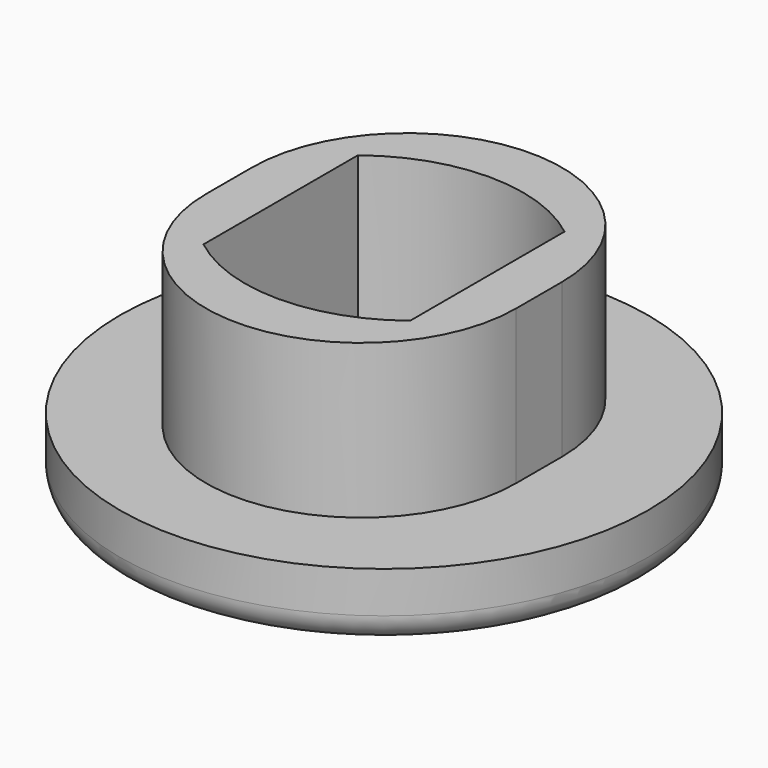
from build123d import *

# Parameters (mm, degrees)
F0_R     = 11.5
F1_DEPTH = 3
F2_R     = 1.2
F3_DEPTH = 6.7


with BuildPart() as f1:
    # F0 (on Top) → F1 (new body)
    with BuildSketch(Plane.XY):
        Circle(F0_R)
        with BuildLine():
            ThreePointArc((-6.75, 1.25), (0, 8), (6.75, 1.25))
            Line((6.75, 1.25), (6.75, -1.25))
            ThreePointArc((6.75, -1.25), (0, -8), (-6.75, -1.25))
            Line((-6.75, -1.25), (-6.75, 1.25))
        make_face(mode=Mode.SUBTRACT)
        with BuildLine():
            ThreePointArc((4.5, 4.20141), (5.815353, 2.87082), (6.75, 1.25))
            ThreePointArc((6.75, 1.25), (0, 8), (-6.75, 1.25))
            ThreePointArc((-6.75, 1.25), (-5.815353, 2.87082), (-4.5, 4.20141))
            ThreePointArc((-4.5, 4.20141), (0, 5.75), (4.5, 4.20141))
        make_face()
        with BuildLine():
            ThreePointArc((-4.5, 4.20141), (-5.815353, 2.87082), (-6.75, 1.25))
            Line((-6.75, 1.25), (-6.75, -1.25))
            ThreePointArc((-6.75, -1.25), (-5.815353, -2.87082), (-4.5, -4.20141))
            Line((-4.5, -4.20141), (-4.5, 4.20141))
        make_face()
        with BuildLine():
            Line((4.5, -4.20141), (4.5, 4.20141))
            ThreePointArc((4.5, 4.20141), (0, 5.75), (-4.5, 4.20141))
            Line((-4.5, 4.20141), (-4.5, -4.20141))
            ThreePointArc((-4.5, -4.20141), (0, -5.75), (4.5, -4.20141))
        make_face()
        with BuildLine():
            ThreePointArc((-6.75, -1.25), (0, -8), (6.75, -1.25))
            ThreePointArc((6.75, -1.25), (5.815353, -2.87082), (4.5, -4.20141))
            ThreePointArc((4.5, -4.20141), (0, -5.75), (-4.5, -4.20141))
            ThreePointArc((-4.5, -4.20141), (-5.815353, -2.87082), (-6.75, -1.25))
        make_face()
        with BuildLine():
            Line((6.75, -1.25), (6.75, 1.25))
            ThreePointArc((6.75, 1.25), (5.815353, 2.87082), (4.5, 4.20141))
            Line((4.5, 4.20141), (4.5, -4.20141))
            ThreePointArc((4.5, -4.20141), (5.815353, -2.87082), (6.75, -1.25))
        make_face()
    extrude(amount=-F1_DEPTH)

    # F2
    f2_edges = [f1.edges().sort_by_distance(p)[0] for p in [
        (-11.5, 0, -3),
    ]]
    fillet(f2_edges, radius=F2_R)

    # F0 (on Top) → F3 (join)
    with BuildSketch(Plane.XY):
        with BuildLine():
            ThreePointArc((-4.5, 4.20141), (-5.815353, 2.87082), (-6.75, 1.25))
            Line((-6.75, 1.25), (-6.75, -1.25))
            ThreePointArc((-6.75, -1.25), (-5.815353, -2.87082), (-4.5, -4.20141))
            Line((-4.5, -4.20141), (-4.5, 4.20141))
        make_face()
        with BuildLine():
            ThreePointArc((4.5, 4.20141), (5.815353, 2.87082), (6.75, 1.25))
            ThreePointArc((6.75, 1.25), (0, 8), (-6.75, 1.25))
            ThreePointArc((-6.75, 1.25), (-5.815353, 2.87082), (-4.5, 4.20141))
            ThreePointArc((-4.5, 4.20141), (0, 5.75), (4.5, 4.20141))
        make_face()
        with BuildLine():
            Line((6.75, -1.25), (6.75, 1.25))
            ThreePointArc((6.75, 1.25), (5.815353, 2.87082), (4.5, 4.20141))
            Line((4.5, 4.20141), (4.5, -4.20141))
            ThreePointArc((4.5, -4.20141), (5.815353, -2.87082), (6.75, -1.25))
        make_face()
        with BuildLine():
            ThreePointArc((-6.75, -1.25), (0, -8), (6.75, -1.25))
            ThreePointArc((6.75, -1.25), (5.815353, -2.87082), (4.5, -4.20141))
            ThreePointArc((4.5, -4.20141), (0, -5.75), (-4.5, -4.20141))
            ThreePointArc((-4.5, -4.20141), (-5.815353, -2.87082), (-6.75, -1.25))
        make_face()
    extrude(amount=F3_DEPTH)


solid = f1.part
